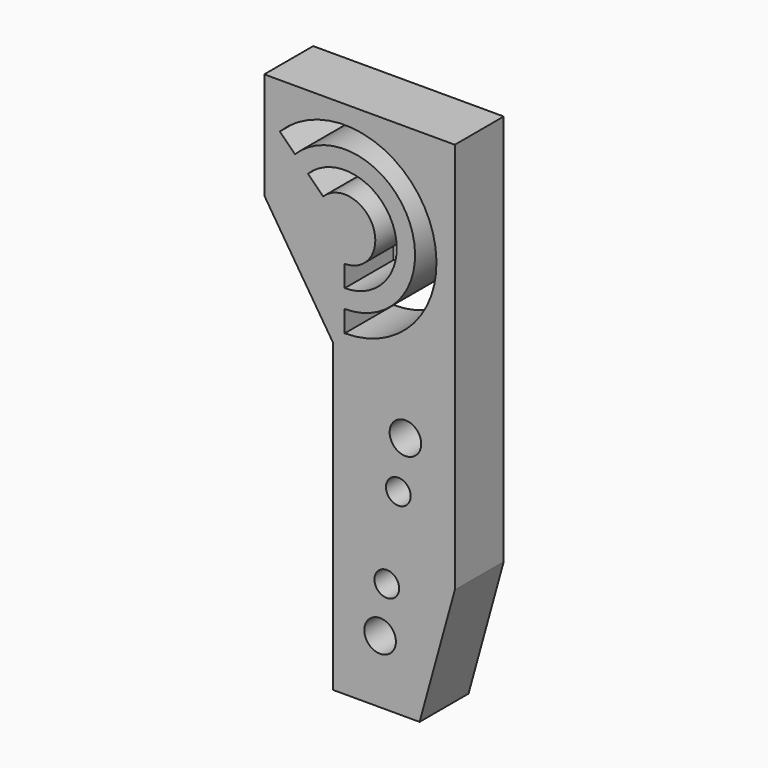
from build123d import *

# Parameters (mm, degrees)
F0_R     = 1.29
F0_R_2   = 1.01
F1_DEPTH = 5
F3_DEPTH = 5.001


with BuildPart() as f1:
    # F0 (on Front) → F1 (new body)
    with BuildSketch(Plane.XZ):
        Polygon((-21.628658, 26.47), (-37.208658, 26.47), (-37.208658, 17.745), (-31.608658, 9.02), (-31.608658, -16.01), (-24.508658, -16.01), (-21.628658, -5.57), align=None)
        with Locations((-27.738658, -10.87)):
            Circle(F0_R, mode=Mode.SUBTRACT)
        with Locations((-27.188658, -6.95)):
            Circle(F0_R_2, mode=Mode.SUBTRACT)
        with Locations((-26.248658, 0)):
            Circle(F0_R_2, mode=Mode.SUBTRACT)
        with Locations((-25.668658, 4.04)):
            Circle(F0_R, mode=Mode.SUBTRACT)
    extrude(amount=F1_DEPTH)

    # F2 (on face) → F3 (cut, through all)
    with BuildSketch(Plane.XZ.offset(5)):
        with BuildLine():
            ThreePointArc((-32.396425, 19.237767), (-28.318959, 18.426709), (-30.628658, 14.97))
            Line((-30.628658, 14.97), (-30.628658, 13.22))
            ThreePointArc((-30.628658, 13.22), (-26.70217, 19.096405), (-33.633862, 20.475204))
            Line((-33.633862, 20.475204), (-32.396425, 19.237767))
        make_face()
        with BuildLine():
            ThreePointArc((-34.694522, 21.535864), (-25.316351, 19.67043), (-30.628658, 11.72))
            Line((-30.628658, 11.72), (-30.628658, 9.97))
            ThreePointArc((-30.628658, 9.97), (-23.699562, 20.340126), (-35.931959, 22.773301))
            Line((-35.931959, 22.773301), (-34.694522, 21.535864))
        make_face()
    extrude(amount=-F3_DEPTH, mode=Mode.SUBTRACT)


solid = f1.part
